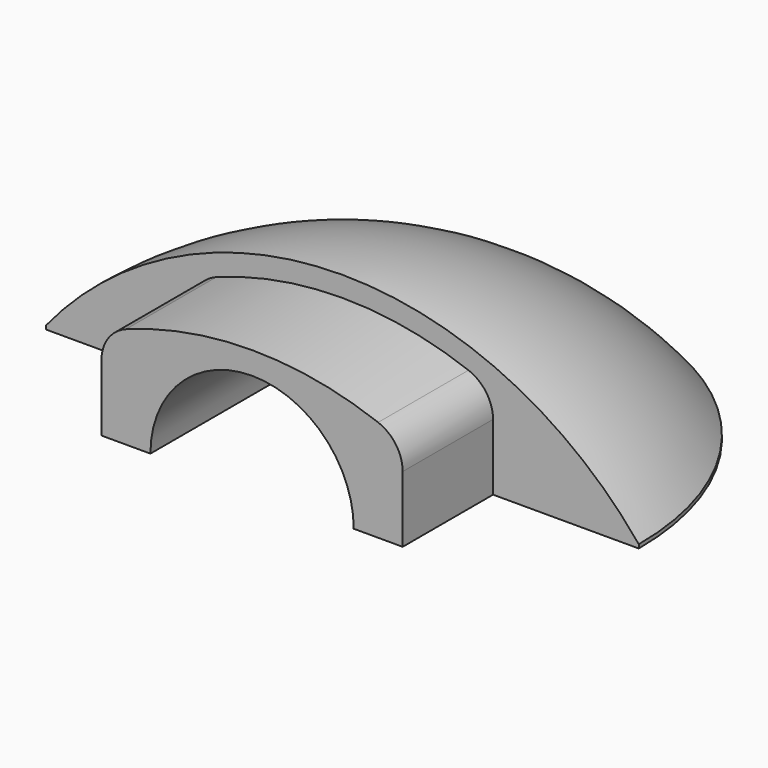
from build123d import *

# Parameters (mm, degrees)
F2_ANGLE = 180
F4_DEPTH = 15
F7_R     = 5


with BuildPart() as f2:
    # F1 (on Front) → F2 (revolve)
    with BuildSketch(Plane.XZ):
        with BuildLine():
            Line((-39.353583, 0.5), (-39.353583, 0))
            Line((-39.353583, 0), (0, 0))
            Line((0, 0), (0, 19.2))
            ThreePointArc((0, 19.2), (-21.785284, 14.28726), (-39.353583, 0.5))
        make_face()
    revolve(axis=Axis((0, 0, 9.6), (0, 0, -1)), revolution_arc=F2_ANGLE)

    # F3 (on Front) → F4 (join)
    with BuildSketch(Plane.XZ):
        with BuildLine():
            Line((20, 0), (20, 12.140763))
            ThreePointArc((20, 12.140763), (0, 16.5), (-20, 12.140763))
            Line((-20, 12.140763), (-20, 0))
            Line((-20, 0), (20, 0))
        make_face()
    extrude(amount=F4_DEPTH)

    # F5 (on Top) → F6 (revolve, cut)
    with BuildSketch(Plane.XY):
        with BuildLine():
            Line((-13.5, -15), (0, -15))
            Line((0, -15), (0, 25))
            ThreePointArc((0, 25), (-9.545942, 21.045942), (-13.5, 11.5))
            Line((-13.5, 11.5), (-13.5, -15))
        make_face()
    revolve(axis=Axis((0, 5, 0), (0, 1, 0)), mode=Mode.SUBTRACT)

    # F7
    f7_edges = [f2.edges().sort_by_distance(p)[0] for p in [
        (-20, -7.5, 12.140763),
        (20, -7.5, 12.140763),
    ]]
    fillet(f7_edges, radius=F7_R)


solid = f2.part
